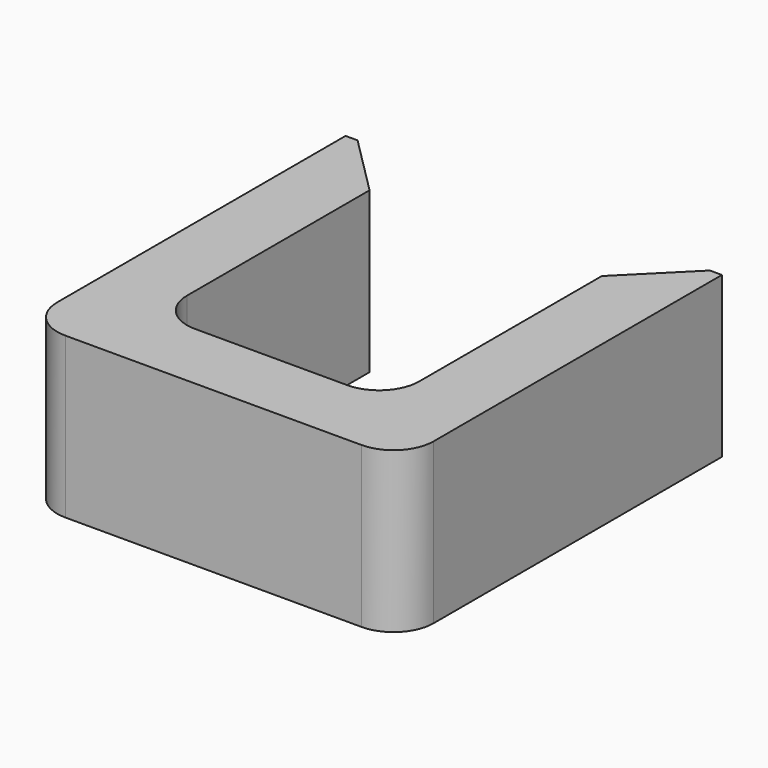
from build123d import *

# Parameters (mm, degrees)
F1_DEPTH = 4
F2_SIZE  = 1.5
F3_R     = 1


with BuildPart() as f1:
    # F0 (on Top) → F1 (new body)
    with BuildSketch(Plane.XY):
        Polygon((-2.9, 0), (-2.9, 8.2), (-4.7, 8.2), (-4.7, -1.8), (4.7, -1.8), (4.7, 8.2), (2.9, 8.2), (2.9, 0), align=None)
    extrude(amount=F1_DEPTH)

    # F2
    f2_edges = [f1.edges().sort_by_distance(p)[0] for p in [
        (-2.9, 8.2, 2),
        (2.9, 8.2, 2),
    ]]
    chamfer(f2_edges, length=F2_SIZE)

    # F3
    f3_edges = [f1.edges().sort_by_distance(p)[0] for p in [
        (-2.9, 0, 2),
        (2.9, 0, 2),
        (-4.7, -1.8, 2),
        (4.7, -1.8, 2),
    ]]
    fillet(f3_edges, radius=F3_R)


solid = f1.part
